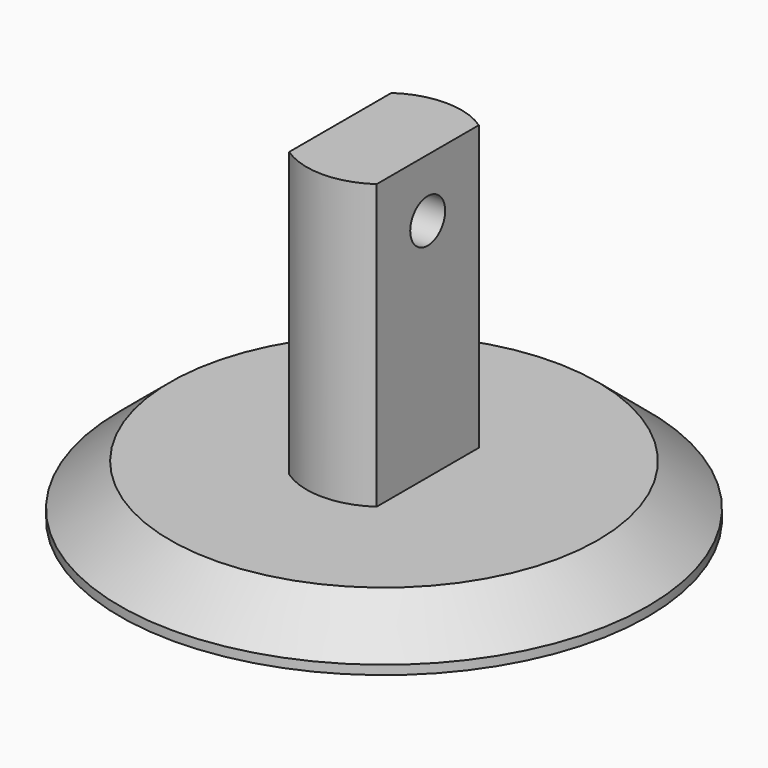
from build123d import *

# Parameters (mm, degrees)
F0_W     = 4.25
F0_H     = 2.8
F0_W_2   = 10.25
F0_H_2   = 15.6
F4_W     = 4.8
F4_H     = 8.5
F5_DEPTH = 15.6
F6_R     = 1.2
F7_DEPTH = 16.901


with BuildPart() as f1:
    # F0 (on Front) → F1 (revolve)
    with BuildSketch(Plane.XZ):
        with Locations((2.125, 1.4)):
            Rectangle(F0_W, F0_H)
        with Locations((9.375, 1.4)):
            Rectangle(F0_W_2, F0_H)
        with Locations((2.125, 10.6)):
            Rectangle(F0_W, F0_H_2)
    revolve(axis=Axis((0, 0, 8.798894), (0, 0, -1)))

    # F2 (on Front) → F3 (revolve, cut)
    with BuildSketch(Plane.XZ):
        Polygon((14.5, 2.8), (11.75, 2.8), (14.5, 0.5), align=None)
    revolve(axis=Axis((0, 0, 11.99575), (0, 0, 1)), mode=Mode.SUBTRACT)

    # F4 (on face) → F5 (cut, through all)
    with BuildSketch(Plane.XY.offset(18.4)):
        with Locations((4.8, 0)):
            Rectangle(F4_W, F4_H)
        with Locations((-4.8, 0)):
            Rectangle(F4_W, F4_H)
    extrude(amount=-F5_DEPTH, mode=Mode.SUBTRACT)

    # F6 (on face) → F7 (cut, through all)
    with BuildSketch(Plane(origin=(-2.4, 0, 0), x_dir=(0, -1, 0), z_dir=(-1, 0, 0))):
        with Locations((0, 15.2)):
            Circle(F6_R)
    extrude(amount=-F7_DEPTH, mode=Mode.SUBTRACT)


solid = f1.part
